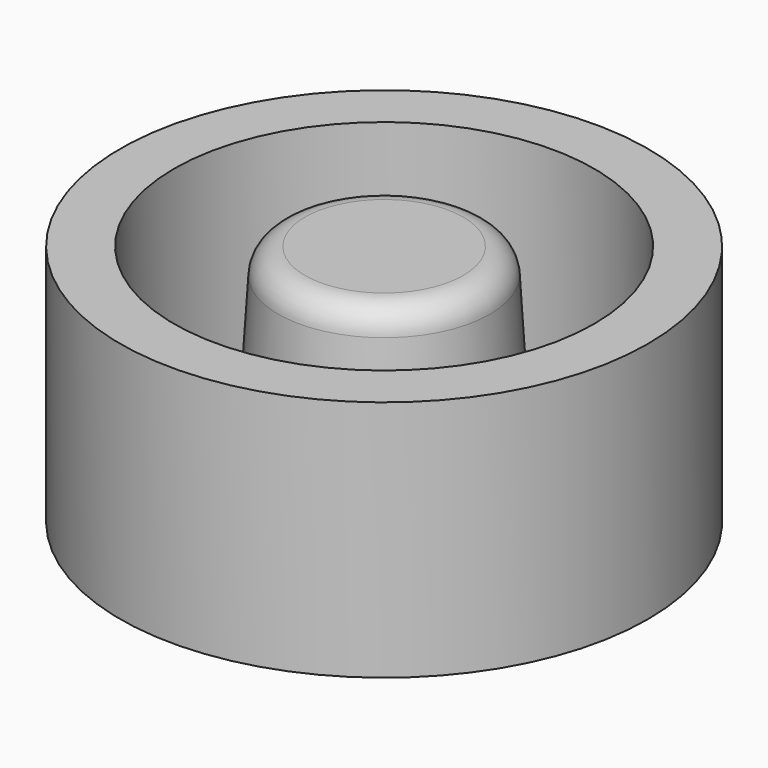
from build123d import *

# Parameters (mm, degrees)
POCKET_DEPTH    = 4.501
POCKET001_DEPTH = 4.501
POCKET002_DEPTH = 4.501
POCKET003_DEPTH = 4.501


with BuildPart() as part:
    # Sketch → Revolution (revolve)
    with BuildSketch(Plane.XZ):
        with BuildLine():
            Line((0, 4.5), (1.468763, 4.5))
            ThreePointArc((1.967862, 4.030002), (1.811545, 4.364006), (1.468763, 4.5))
            Line((1.967862, 4.030002), (2.15, 1))
            Line((2.15, 1), (3.9, 1))
            Line((3.9, 1), (3.9, 4.5))
            Line((3.9, 4.5), (4.9, 4.5))
            Line((4.9, 4.5), (4.9, 0))
            Line((4.9, 0), (0, 0))
            Line((0, 0), (0, 4.5))
        make_face()
    revolve(axis=Axis((0, 0, 0), (0, 0, 1)))

    # Sketch002 (on Face6 of Revolution) → Pocket (cut, through all)
    with BuildSketch(Plane(origin=(0, 0, 0), x_dir=(1, 0, 0), z_dir=(0, 0, -1))):
        with BuildLine():
            Line((-2.15, 0), (-3.35, 0))
            ThreePointArc((-2.368808, 2.368808), (-3.094996, 1.281989), (-3.35, 0))
            Line((-2.368808, 2.368808), (-1.52028, 1.52028))
            ThreePointArc((-1.52028, 1.52028), (-1.986341, 0.822769), (-2.15, 0))
        make_face()
    extrude(amount=-POCKET_DEPTH, mode=Mode.SUBTRACT)

    # Sketch003 (on Face6 of Revolution) → Pocket001 (cut, through all)
    with BuildSketch(Plane(origin=(0, 0, 0), x_dir=(1, 0, 0), z_dir=(0, 0, -1))):
        with BuildLine():
            Line((0, 2.15), (0, 3.35))
            ThreePointArc((2.368808, 2.368808), (1.281989, 3.094996), (0, 3.35))
            Line((2.368808, 2.368808), (1.52028, 1.52028))
            ThreePointArc((1.52028, 1.52028), (0.822769, 1.986341), (0, 2.15))
        make_face()
    extrude(amount=-POCKET001_DEPTH, mode=Mode.SUBTRACT)

    # Sketch004 (on Face6 of Revolution) → Pocket002 (cut, through all)
    with BuildSketch(Plane(origin=(0, 0, 0), x_dir=(1, 0, 0), z_dir=(0, 0, -1))):
        with BuildLine():
            Line((2.15, 0), (3.35, 0))
            ThreePointArc((2.368808, -2.368808), (3.094996, -1.281989), (3.35, 0))
            Line((2.368808, -2.368808), (1.52028, -1.52028))
            ThreePointArc((1.52028, -1.52028), (1.986341, -0.822769), (2.15, 0))
        make_face()
    extrude(amount=-POCKET002_DEPTH, mode=Mode.SUBTRACT)

    # Sketch005 (on Face6 of Revolution) → Pocket003 (cut, through all)
    with BuildSketch(Plane(origin=(0, 0, 0), x_dir=(1, 0, 0), z_dir=(0, 0, -1))):
        with BuildLine():
            Line((0, -2.15), (0, -3.35))
            ThreePointArc((-2.368808, -2.368808), (-1.281989, -3.094996), (0, -3.35))
            Line((-2.368808, -2.368808), (-1.52028, -1.52028))
            ThreePointArc((-1.52028, -1.52028), (-0.822769, -1.986341), (0, -2.15))
        make_face()
    extrude(amount=-POCKET003_DEPTH, mode=Mode.SUBTRACT)


solid = part.part
